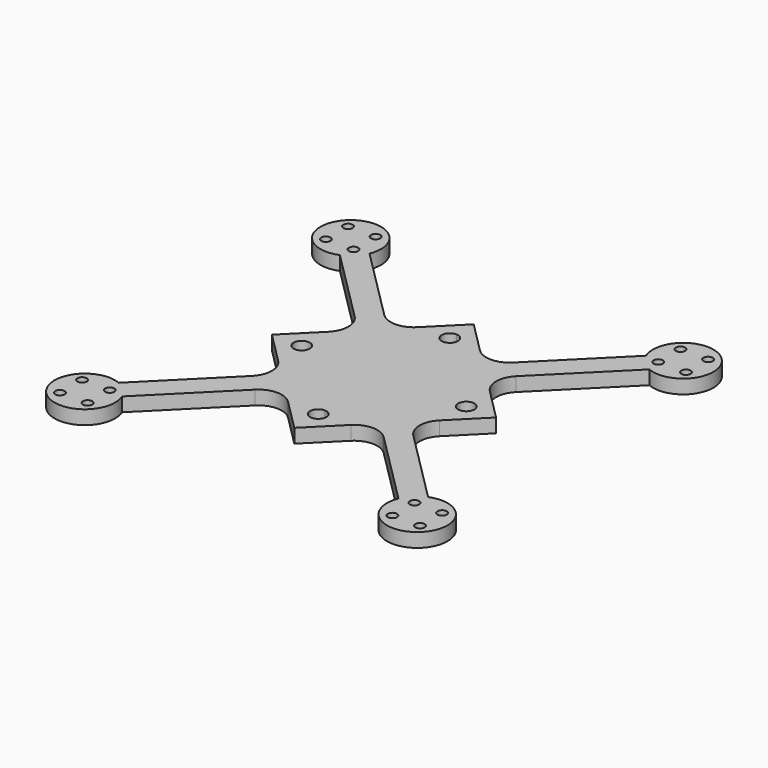
from build123d import *

# Parameters (mm, degrees)
SKETCH_R  = 1
PAD_DEPTH = 3
FILLET_R  = 5


with BuildPart() as part:
    # Sketch → Pad (new body)
    with BuildSketch(Plane.XY):
        with BuildLine():
            ThreePointArc((-29.698485, 33.234019), (-40.305087, 40.305087), (-33.234019, 29.698485))
            Line((-33.234019, 29.698485), (-13.810747, 10.275213))
            Line((-13.810747, 10.275213), (-24.08596, 0))
            Line((-13.810747, -10.275213), (-24.08596, 0))
            Line((-33.234019, -29.698485), (-13.810747, -10.275213))
            ThreePointArc((-33.234019, -29.698485), (-40.305087, -40.305087), (-29.698485, -33.234019))
            Line((-29.698485, -33.234019), (-10.275213, -13.810747))
            Line((0, -24.08596), (-10.275213, -13.810747))
            Line((0, -24.08596), (10.275213, -13.810747))
            Line((29.698485, -33.234019), (10.275213, -13.810747))
            ThreePointArc((29.698485, -33.234019), (40.305087, -40.305087), (33.234019, -29.698485))
            Line((33.234019, -29.698485), (13.810747, -10.275213))
            Line((13.810747, -10.275213), (24.08596, 0))
            Line((13.810747, 10.275213), (24.08596, 0))
            Line((33.234019, 29.698485), (13.810747, 10.275213))
            ThreePointArc((33.234019, 29.698485), (40.305087, 40.305087), (29.698485, 33.234019))
            Line((29.698485, 33.234019), (10.275213, 13.810747))
            Line((0, 24.08596), (10.275213, 13.810747))
            Line((0, 24.08596), (-10.275213, 13.810747))
            Line((-29.698485, 33.234019), (-10.275213, 13.810747))
        make_face()
        with Locations((-38.678741, 38.678741)):
            Circle(SKETCH_R, mode=Mode.SUBTRACT)
        with Locations((-38.678741, 32.739044)):
            Circle(SKETCH_R, mode=Mode.SUBTRACT)
        with Locations((-32.739044, 38.678741)):
            Circle(SKETCH_R, mode=Mode.SUBTRACT)
        with Locations((-32.739044, 32.739044)):
            Circle(SKETCH_R, mode=Mode.SUBTRACT)
        with Locations((38.678741, -38.678741)):
            Circle(SKETCH_R, mode=Mode.SUBTRACT)
        with Locations((38.678741, -32.739044)):
            Circle(SKETCH_R, mode=Mode.SUBTRACT)
        with Locations((32.739044, -38.678741)):
            Circle(SKETCH_R, mode=Mode.SUBTRACT)
        with Locations((32.739044, -32.739044)):
            Circle(SKETCH_R, mode=Mode.SUBTRACT)
        with Locations((-38.678741, -38.678741)):
            Circle(SKETCH_R, mode=Mode.SUBTRACT)
        with Locations((-38.678741, -32.739044)):
            Circle(SKETCH_R, mode=Mode.SUBTRACT)
        with Locations((-32.739044, -38.678741)):
            Circle(SKETCH_R, mode=Mode.SUBTRACT)
        with Locations((-32.739044, -32.739044)):
            Circle(SKETCH_R, mode=Mode.SUBTRACT)
        with Locations((38.678741, 38.678741)):
            Circle(SKETCH_R, mode=Mode.SUBTRACT)
        with Locations((38.678741, 32.739044)):
            Circle(SKETCH_R, mode=Mode.SUBTRACT)
        with Locations((32.739044, 38.678741)):
            Circle(SKETCH_R, mode=Mode.SUBTRACT)
        with Locations((32.739044, 32.739044)):
            Circle(SKETCH_R, mode=Mode.SUBTRACT)
        with BuildLine():
            ThreePointArc((-0.002953, 19.427669), (-1.74985, 17.700664), (-0.048936, 15.928353))
            ThreePointArc((-0.048936, 15.928353), (1.74985, 17.654676), (-0.002953, 19.427669))
        make_face(mode=Mode.SUBTRACT)
        with BuildLine():
            ThreePointArc((-15.92767, 0), (-17.67767, 1.75), (-19.42767, 0))
            ThreePointArc((-19.42767, 0), (-17.67767, -1.75), (-15.92767, 0))
        make_face(mode=Mode.SUBTRACT)
        with BuildLine():
            ThreePointArc((0.002953, -19.427669), (1.74985, -17.700664), (0.048936, -15.928353))
            ThreePointArc((0.048936, -15.928353), (-1.74985, -17.654676), (0.002953, -19.427669))
        make_face(mode=Mode.SUBTRACT)
        with BuildLine():
            ThreePointArc((15.92767, 0), (17.67767, -1.75), (19.42767, 0))
            ThreePointArc((19.42767, 0), (17.67767, 1.75), (15.92767, 0))
        make_face(mode=Mode.SUBTRACT)
    extrude(amount=PAD_DEPTH)

    # Fillet
    fillet_edges = [part.edges().sort_by_distance(p)[0] for p in [
        (13.810747, 10.275213, 1.5),
        (13.810747, -10.275213, 1.5),
        (-10.275213, -13.810747, 1.5),
        (-13.810747, 10.275213, 1.5),
        (10.275213, 13.810747, 1.5),
        (-10.275213, 13.810747, 1.5),
        (-13.810747, -10.275213, 1.5),
        (10.275213, -13.810747, 1.5),
    ]]
    fillet(fillet_edges, radius=FILLET_R)


solid = part.part
